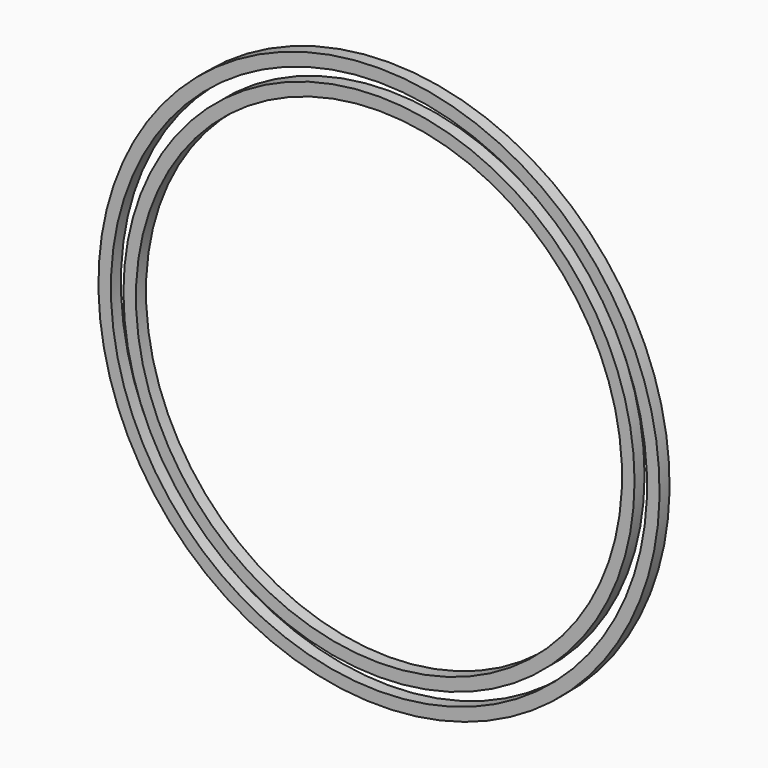
from build123d import *

# Parameters (mm, degrees)
F1_W = 12
F1_H = 12


with BuildPart() as f2:
    # F1 (on Right) → F2 (revolve)
    with BuildSketch(Plane.YZ):
        with Locations((0, 263)):
            Rectangle(F1_W, F1_H)
    revolve(axis=Axis((0, 0, 0), (0, -1, 0)))


with BuildPart() as f3:
    # F1 (on Right) → F3 (revolve)
    with BuildSketch(Plane.YZ):
        with Locations((0, 239)):
            Rectangle(F1_W, F1_H)
    revolve(axis=Axis((0, 0, 0), (0, -1, 0)))


solid = Compound([f2.part, f3.part])
